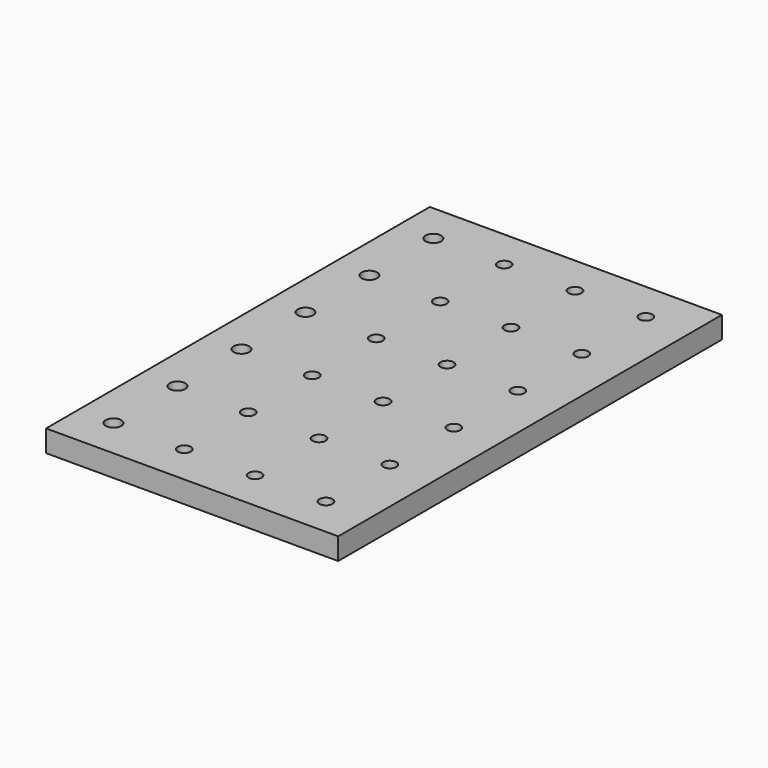
from build123d import *

# Parameters (mm, degrees)
F0_W     = 85.09
F0_H     = 139.7
F1_DEPTH = 6.35
F2_R     = 1.905
F3_DEPTH = 6.351
F4_R     = 2.286
F5_DEPTH = 6.351


with BuildPart() as f1:
    # F0 (on Top) → F1 (new body)
    with BuildSketch(Plane.XY):
        Rectangle(F0_W, F0_H)
    extrude(amount=F1_DEPTH)

    # F2 (on Top) → F3 (cut, through all)
    with BuildSketch(Plane.XY):
        with Locations((-32.22625, -58.208333)):
            Circle(F2_R)
        with Locations((-32.22625, -34.916533)):
            Circle(F2_R)
        with Locations((-32.22625, -11.624733)):
            Circle(F2_R)
        with Locations((-32.22625, 11.667067)):
            Circle(F2_R)
        with Locations((-32.22625, 34.958867)):
            Circle(F2_R)
        with Locations((-32.22625, 58.250667)):
            Circle(F2_R)
        with Locations((-11.60145, -58.208333)):
            Circle(F2_R)
        with Locations((-11.60145, -34.916533)):
            Circle(F2_R)
        with Locations((-11.60145, -11.624733)):
            Circle(F2_R)
        with Locations((-11.60145, 11.667067)):
            Circle(F2_R)
        with Locations((-11.60145, 34.958867)):
            Circle(F2_R)
        with Locations((-11.60145, 58.250667)):
            Circle(F2_R)
        with Locations((9.02335, -58.208333)):
            Circle(F2_R)
        with Locations((9.02335, -34.916533)):
            Circle(F2_R)
        with Locations((9.02335, -11.624733)):
            Circle(F2_R)
        with Locations((9.02335, 11.667067)):
            Circle(F2_R)
        with Locations((9.02335, 34.958867)):
            Circle(F2_R)
        with Locations((9.02335, 58.250667)):
            Circle(F2_R)
        with Locations((29.64815, -58.208333)):
            Circle(F2_R)
        with Locations((29.64815, -34.916533)):
            Circle(F2_R)
        with Locations((29.64815, -11.624733)):
            Circle(F2_R)
        with Locations((29.64815, 11.667067)):
            Circle(F2_R)
        with Locations((29.64815, 34.958867)):
            Circle(F2_R)
        with Locations((29.64815, 58.250667)):
            Circle(F2_R)
    extrude(amount=F3_DEPTH, mode=Mode.SUBTRACT)

    # F4 (on Top) → F5 (cut, through all)
    with BuildSketch(Plane.XY):
        with Locations((-32.22625, -58.208333)):
            Circle(F4_R)
        with Locations((-32.22625, -34.916533)):
            Circle(F4_R)
        with Locations((-32.22625, -11.624733)):
            Circle(F4_R)
        with Locations((-32.22625, 11.667067)):
            Circle(F4_R)
        with Locations((-32.22625, 34.958867)):
            Circle(F4_R)
        with Locations((-32.22625, 58.250667)):
            Circle(F4_R)
    extrude(amount=F5_DEPTH, mode=Mode.SUBTRACT)


solid = f1.part
